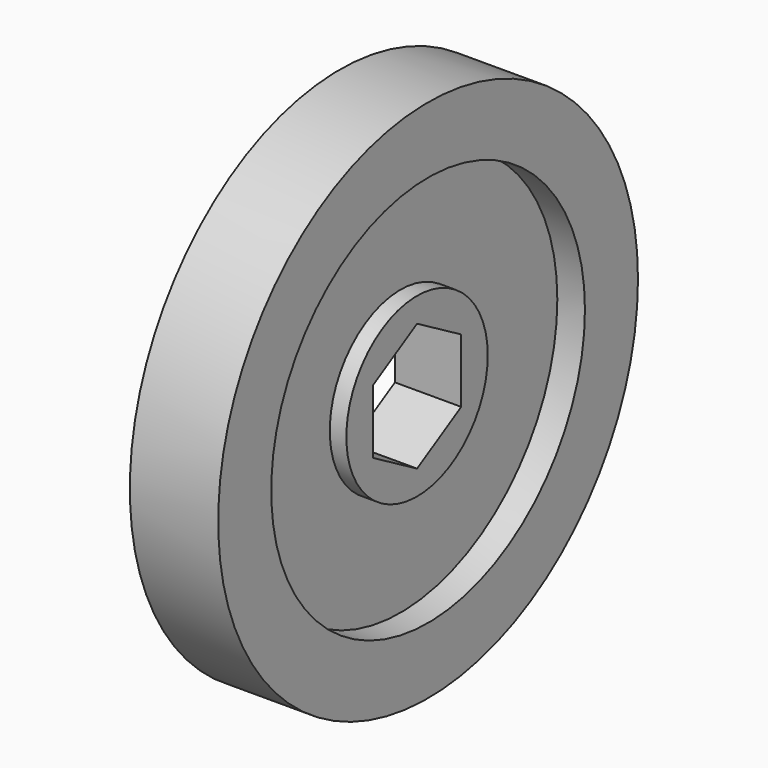
from build123d import *

# Parameters (mm, degrees)
POCKET_DEPTH = 8.891


with BuildPart() as part:
    # Sketch → Revolution (revolve)
    with BuildSketch(Plane.XY):
        Polygon((0, 0), (0, 10.16), (1.905, 10.16), (1.905, 22.5425), (-1.27, 22.5425), (-1.27, 30.1625), (8.89, 30.1625), (8.89, 22.5425), (5.715, 22.5425), (5.715, 10.16), (7.62, 10.16), (7.62, 0), align=None)
    revolve(axis=Axis((0, 0, 0), (1, 0, 0)))

    # Sketch001 (on Face1 of Revolution) → Pocket (cut, through all)
    with BuildSketch(Plane(origin=(0, 0, 0), x_dir=(0, -1, 0), z_dir=(-1, 0, 0))):
        Polygon((0, 7.332348), (-6.35, 3.666174), (-6.35, -3.666174), (0, -7.332348), (6.35, -3.666174), (6.35, 3.666174), align=None)
    extrude(amount=-POCKET_DEPTH, mode=Mode.SUBTRACT)


solid = part.part
